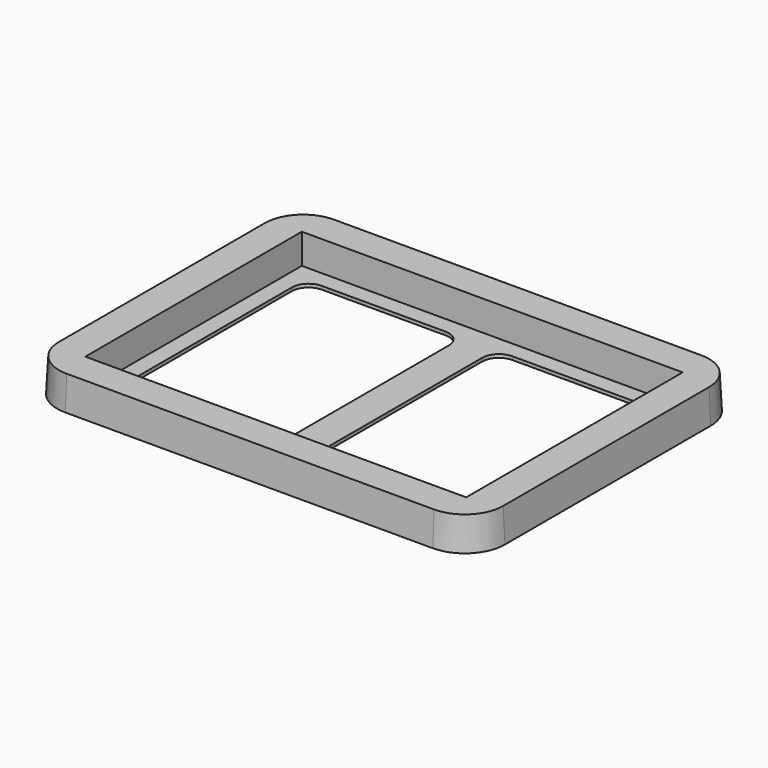
from build123d import *

# Parameters (mm, degrees)
F1_DEPTH = 10
F1_TAPER = 3
F2_W     = 114
F2_H     = 81
F3_DEPTH = 9
F5_DEPTH = 1


with BuildPart() as f1:
    # F0 (on Top) → F1 (new body)
    with BuildSketch(Plane.XY):
        with BuildLine():
            Line((55, 50.5), (-55, 50.5))
            ThreePointArc((-55, 50.5), (-63.4852813742, 46.9852813742), (-67, 38.5))
            Line((-67, 38.5), (-67, -38.5))
            ThreePointArc((-67, -38.5), (-63.4852813742, -46.9852813742), (-55, -50.5))
            Line((-55, -50.5), (55, -50.5))
            ThreePointArc((55, -50.5), (63.4852813742, -46.9852813742), (67, -38.5))
            Line((67, -38.5), (67, 38.5))
            ThreePointArc((67, 38.5), (63.4852813742, 46.9852813742), (55, 50.5))
        make_face()
    extrude(amount=F1_DEPTH, taper=F1_TAPER)

    # F2 (on face) → F3 (cut)
    with BuildSketch(Plane.XY.offset(10)):
        Rectangle(F2_W, F2_H)
    extrude(amount=-F3_DEPTH, mode=Mode.SUBTRACT)

    # F4 (on face) → F5 (cut, through all)
    with BuildSketch(Plane.XY.offset(1)):
        with BuildLine():
            ThreePointArc((52, 30.5), (50.5355339059, 34.0355339059), (47, 35.5))
            Line((47, 35.5), (10, 35.5))
            ThreePointArc((10, 35.5), (6.4644660941, 34.0355339059), (5, 30.5))
            Line((5, 30.5), (5, -30.5))
            ThreePointArc((5, -30.5), (6.4644660941, -34.0355339059), (10, -35.5))
            Line((10, -35.5), (47, -35.5))
            ThreePointArc((47, -35.5), (50.5355339059, -34.0355339059), (52, -30.5))
            Line((52, -30.5), (52, 30.5))
        make_face()
        with BuildLine():
            Line((-5, -30.5), (-5, 30.5))
            ThreePointArc((-5, 30.5), (-6.4644660941, 34.0355339059), (-10, 35.5))
            Line((-10, 35.5), (-47, 35.5))
            ThreePointArc((-47, 35.5), (-50.5355339059, 34.0355339059), (-52, 30.5))
            Line((-52, 30.5), (-52, -30.5))
            ThreePointArc((-52, -30.5), (-50.5355339059, -34.0355339059), (-47, -35.5))
            Line((-47, -35.5), (-10, -35.5))
            ThreePointArc((-10, -35.5), (-6.4644660941, -34.0355339059), (-5, -30.5))
        make_face()
    extrude(amount=-F5_DEPTH, mode=Mode.SUBTRACT)


solid = f1.part
